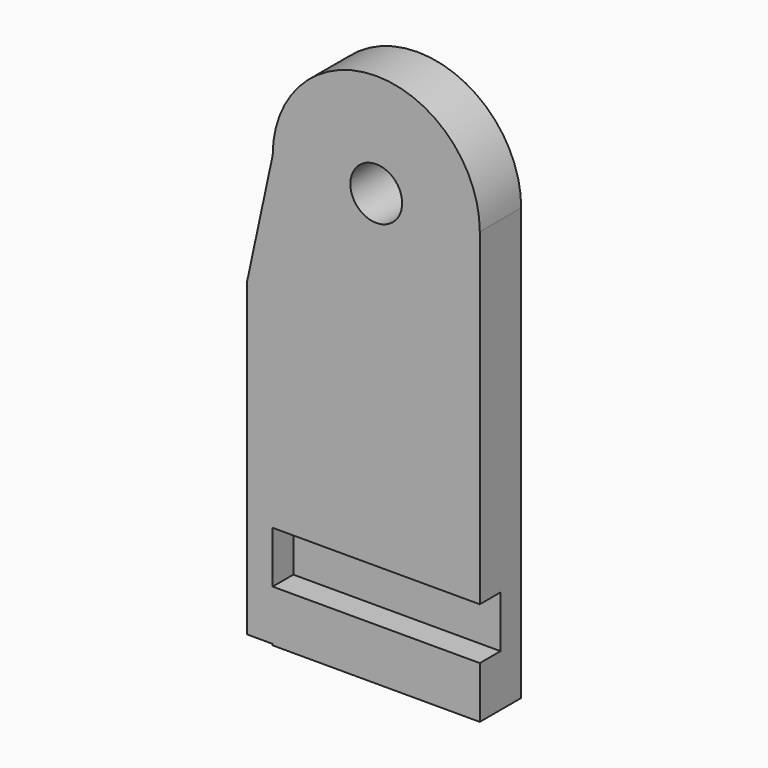
from build123d import *

# Parameters (mm, degrees)
F0_R     = 1.5
F1_DEPTH = 3
F2_DEPTH = 1.5


with BuildPart() as f1:
    # F0 (on Front) → F1 (new body)
    with BuildSketch(Plane.XZ):
        with BuildLine():
            Line((-6, -9.2712371871), (-6, -6.2712371871))
            Line((-6, -6.2712371871), (0, -6.2712371871))
            Line((0, -6.2712371871), (6, -6.2712371871))
            Line((6, -6.2712371871), (6, 0))
            Line((6, 0), (6, 12.7287628129))
            ThreePointArc((6, 12.7287628129), (0, 18.7287628129), (-6, 12.7287628129))
            Line((-6, 12.7287628129), (-7.5, 5.7287628129))
            Line((-7.5, 5.7287628129), (-7.5, -6.2712371871))
            Line((-7.5, -6.2712371871), (-7.5, -12.1941817924))
            Line((-7.5, -12.1941817924), (-6, -12.1941817924))
            Line((-6, -12.1941817924), (-6, -12.2712371871))
            Line((-6, -12.2712371871), (0, -12.2712371871))
            Line((0, -12.2712371871), (6, -12.2712371871))
            Line((6, -12.2712371871), (6, -9.2712371871))
            Line((6, -9.2712371871), (0, -9.2712371871))
            Line((0, -9.2712371871), (-6, -9.2712371871))
        make_face()
        with Locations((0, 12.7287628129)):
            Circle(F0_R, mode=Mode.SUBTRACT)
        with BuildLine():
            Line((-6, -9.2712371871), (-6, -6.2712371871))
            Line((-6, -6.2712371871), (0, -6.2712371871))
            Line((0, -6.2712371871), (6, -6.2712371871))
            Line((6, -6.2712371871), (6, 0))
            Line((6, 0), (6, 12.7287628129))
            ThreePointArc((6, 12.7287628129), (0, 18.7287628129), (-6, 12.7287628129))
            Line((-6, 12.7287628129), (-7.5, 5.7287628129))
            Line((-7.5, 5.7287628129), (-7.5, -6.2712371871))
            Line((-7.5, -6.2712371871), (-7.5, -12.1941817924))
            Line((-7.5, -12.1941817924), (-6, -12.1941817924))
            Line((-6, -12.1941817924), (-6, -12.2712371871))
            Line((-6, -12.2712371871), (0, -12.2712371871))
            Line((0, -12.2712371871), (6, -12.2712371871))
            Line((6, -12.2712371871), (6, -9.2712371871))
            Line((6, -9.2712371871), (0, -9.2712371871))
            Line((0, -9.2712371871), (-6, -9.2712371871))
        make_face()
        with Locations((0, 12.7287628129)):
            Circle(F0_R, mode=Mode.SUBTRACT)
    extrude(amount=F1_DEPTH)

    # F0 (on Front) → F2 (join)
    with BuildSketch(Plane.XZ):
        Polygon((0, -6.2712371871), (-6, -6.2712371871), (-6, -9.2712371871), (0, -9.2712371871), (6, -9.2712371871), (6, -6.2712371871), align=None)
    extrude(amount=F2_DEPTH)


solid = f1.part
